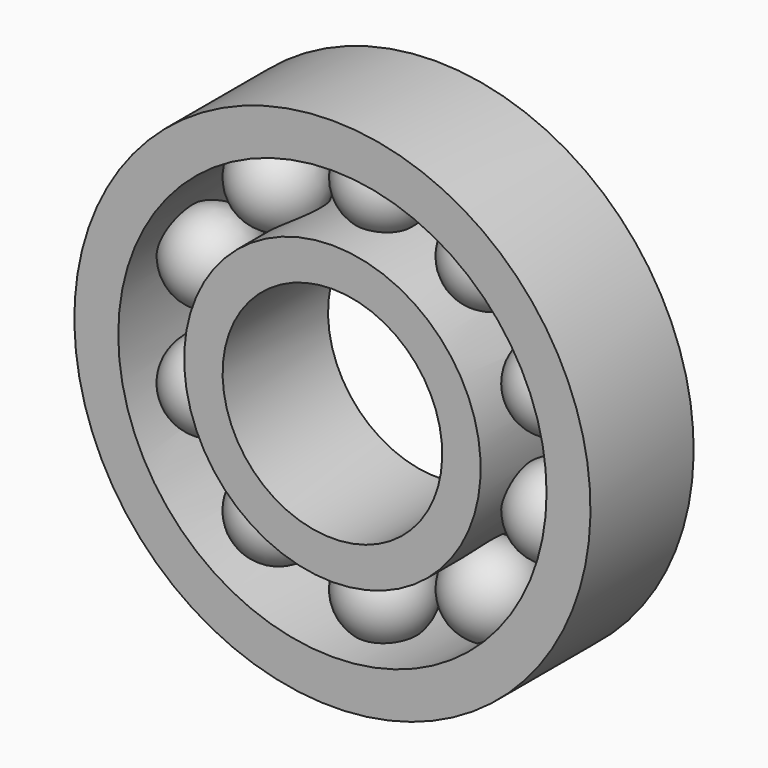
from build123d import *

# Parameters (mm, degrees)
F0_W     = 11.7431455671
F0_H     = 4
F0_W_2   = 12
F0_H_2   = 3.5
F5_COUNT = 10


with BuildPart() as f1:
    # F0 (on Right) → F1 (revolve)
    with BuildSketch(Plane.YZ):
        with Locations((5.8715727835, 21.5)):
            Rectangle(F0_W, F0_H)
    revolve(axis=Axis((0, 11.4260506063, 0), (0, 1, 0)))



with BuildPart() as f1b:
    # F0 (on Right) → F1, piece 2 (revolve)
    with BuildSketch(Plane.YZ):
        with Locations((6, 11.75)):
            Rectangle(F0_W_2, F0_H_2)
    revolve(axis=Axis((0, 11.4260506063, 0), (0, 1, 0)))


with BuildPart() as f1_1:
    add(f1.part)

    add(f1b.part)  # F4 merges F1b
    # F3 (on offset) → F4 (revolve)
    with BuildSketch(Plane.XZ.offset(-6)):
        with BuildLine():
            Line((0, 20.5), (0, 12.5))
            ThreePointArc((0, 12.5), (4, 16.5), (0, 20.5))
        make_face()
    revolve(axis=Axis((0, 6, 16.5), (0, 0, -1)))

    # F5: F1 ×10 about axis
    f5_axis = Axis((0, 0, 0), (0, 1, 0))


with BuildPart() as f1_2:
    add(f1_1.part)
    for i in range(1, F5_COUNT):
        add(f1_1.part.rotate(f5_axis, i * 360 / F5_COUNT))


solid = f1_2.part
